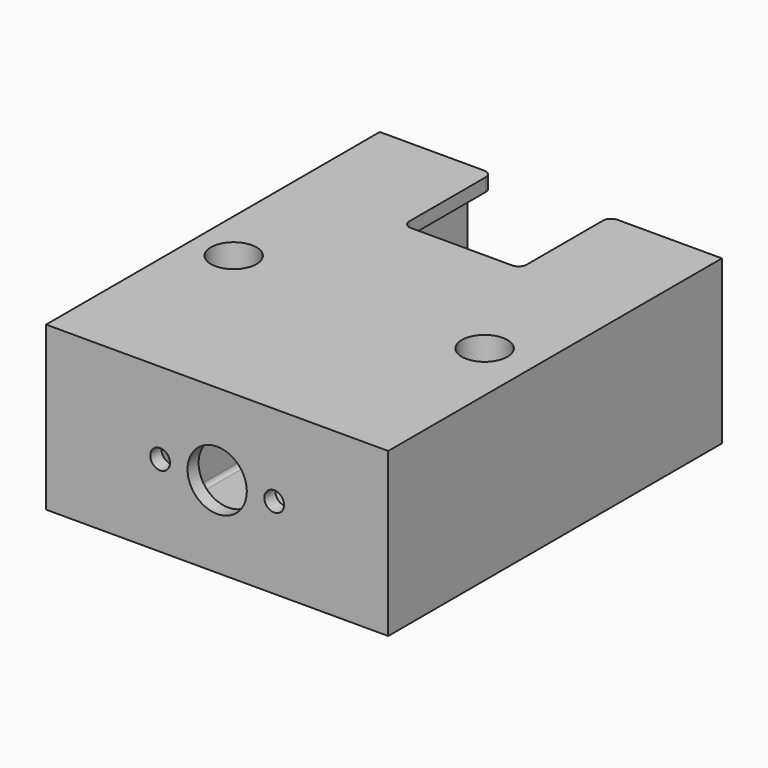
from build123d import *

# Parameters (mm, degrees)
F0_R     = 1.778
F0_W     = 9.144
F0_H     = 1.016
F0_R_2   = 0.76835
F0_R_3   = 2.3114
F1_DEPTH = 32.512
F2_DEPTH = 31.4325
F3_DEPTH = 8.6995
F4_DEPTH = 8.89
F5_R     = 1.778
F6_DEPTH = 12.701
F7_R     = 0.635


with BuildPart() as f1:
    # F0 (on Front) → F1 (new body)
    with BuildSketch(Plane.XZ):
        with BuildLine():
            Line((-13.335, -6.35), (13.335, -6.35))
            Line((13.335, -6.35), (13.335, 6.35))
            Line((13.335, 6.35), (4.572, 6.35))
            Line((4.572, 6.35), (4.572, 5.334))
            Line((4.572, 5.334), (6.159687, 5.334))
            ThreePointArc((6.159687, 5.334), (6.384061, 5.241061), (6.477, 5.016687))
            Line((6.477, 5.016687), (6.477, -5.016687))
            ThreePointArc((6.477, -5.016687), (6.384061, -5.241061), (6.159687, -5.334))
            Line((6.159687, -5.334), (-6.159687, -5.334))
            ThreePointArc((-6.159687, -5.334), (-6.384061, -5.241061), (-6.477, -5.016687))
            Line((-6.477, -5.016687), (-6.477, 5.016687))
            ThreePointArc((-6.477, 5.016687), (-6.384061, 5.241061), (-6.159687, 5.334))
            Line((-6.159687, 5.334), (-4.572, 5.334))
            Line((-4.572, 5.334), (-4.572, 6.35))
            Line((-4.572, 6.35), (-13.335, 6.35))
            Line((-13.335, 6.35), (-13.335, -6.35))
        make_face()
        with Locations((-9.779, 0)):
            Circle(F0_R, mode=Mode.SUBTRACT)
        with Locations((9.779, 0)):
            Circle(F0_R, mode=Mode.SUBTRACT)
        with Locations((0, 5.842)):
            Rectangle(F0_W, F0_H)
        with BuildLine():
            Line((6.159687, 5.334), (4.572, 5.334))
            Line((4.572, 5.334), (-4.572, 5.334))
            Line((-4.572, 5.334), (-6.159687, 5.334))
            ThreePointArc((-6.159687, 5.334), (-6.384061, 5.241061), (-6.477, 5.016687))
            Line((-6.477, 5.016687), (-6.477, -5.016687))
            ThreePointArc((-6.477, -5.016687), (-6.384061, -5.241061), (-6.159687, -5.334))
            Line((-6.159687, -5.334), (6.159687, -5.334))
            ThreePointArc((6.159687, -5.334), (6.384061, -5.241061), (6.477, -5.016687))
            Line((6.477, -5.016687), (6.477, 5.016687))
            ThreePointArc((6.477, 5.016687), (6.384061, 5.241061), (6.159687, 5.334))
        make_face()
        with Locations((-4.445, 0)):
            Circle(F0_R_2, mode=Mode.SUBTRACT)
        Circle(F0_R_3, mode=Mode.SUBTRACT)
        with Locations((4.445, 0)):
            Circle(F0_R_2, mode=Mode.SUBTRACT)
        with Locations((-9.779, 0)):
            Circle(F0_R)
        with Locations((9.779, 0)):
            Circle(F0_R)
    extrude(amount=F1_DEPTH)

    # F0 (on Front) → F2 (cut)
    with BuildSketch(Plane.XZ):
        with BuildLine():
            Line((6.159687, 5.334), (4.572, 5.334))
            Line((4.572, 5.334), (-4.572, 5.334))
            Line((-4.572, 5.334), (-6.159687, 5.334))
            ThreePointArc((-6.159687, 5.334), (-6.384061, 5.241061), (-6.477, 5.016687))
            Line((-6.477, 5.016687), (-6.477, -5.016687))
            ThreePointArc((-6.477, -5.016687), (-6.384061, -5.241061), (-6.159687, -5.334))
            Line((-6.159687, -5.334), (6.159687, -5.334))
            ThreePointArc((6.159687, -5.334), (6.384061, -5.241061), (6.477, -5.016687))
            Line((6.477, -5.016687), (6.477, 5.016687))
            ThreePointArc((6.477, 5.016687), (6.384061, 5.241061), (6.159687, 5.334))
        make_face()
        with Locations((-4.445, 0)):
            Circle(F0_R_2, mode=Mode.SUBTRACT)
        Circle(F0_R_3, mode=Mode.SUBTRACT)
        with Locations((4.445, 0)):
            Circle(F0_R_2, mode=Mode.SUBTRACT)
    extrude(amount=F2_DEPTH, mode=Mode.SUBTRACT)

    # F0 (on Front) → F3 (cut)
    with BuildSketch(Plane.XZ):
        with Locations((0, 5.842)):
            Rectangle(F0_W, F0_H)
    extrude(amount=F3_DEPTH, mode=Mode.SUBTRACT)

    # F0 (on Front) → F4 (cut)
    with BuildSketch(Plane.XZ):
        with Locations((9.779, 0)):
            Circle(F0_R)
        with Locations((-9.779, 0)):
            Circle(F0_R)
    extrude(amount=F4_DEPTH, mode=Mode.SUBTRACT)

    # F5 (on face) → F6 (cut, through all)
    with BuildSketch(Plane.XY.offset(6.35)):
        with Locations((-10.089038, -18.288)):
            Circle(F5_R)
        with Locations((9.468962, -18.288)):
            Circle(F5_R)
    extrude(amount=-F6_DEPTH, mode=Mode.SUBTRACT)

    # F7
    f7_edges = [f1.edges().sort_by_distance(p)[0] for p in [
        (-4.572, -8.6995, 5.842),
        (4.572, -8.6995, 5.842),
        (4.572, 0, 5.842),
        (-4.572, 0, 5.842),
    ]]
    fillet(f7_edges, radius=F7_R)


solid = f1.part
